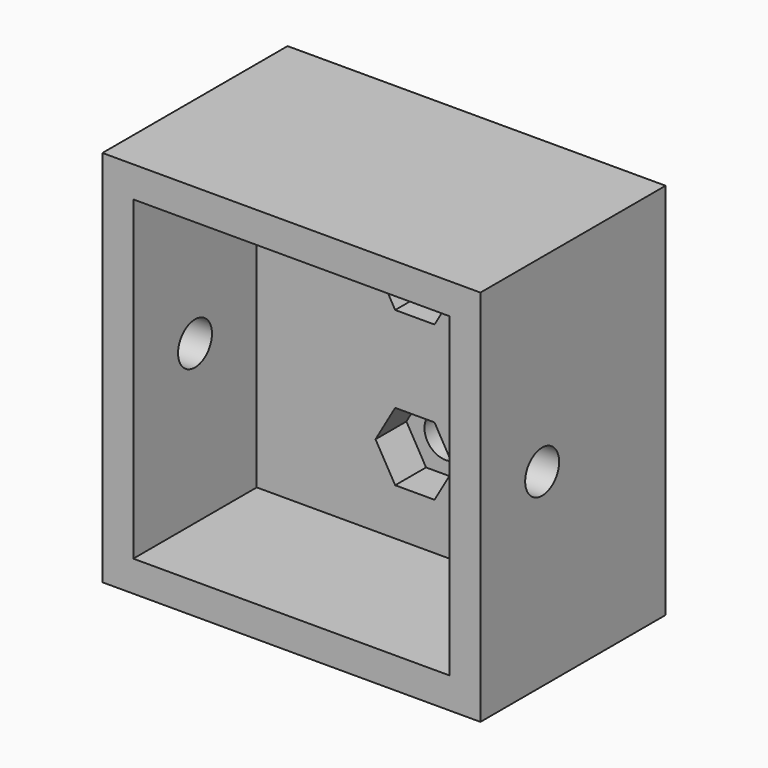
from build123d import *

# Parameters (mm, degrees)
F0_W     = 49
F0_H     = 49
F0_W_2   = 41
F0_H_2   = 41
F1_DEPTH = 20
F2_DEPTH = 10
F3_D     = 5.5
F5_D     = 5.5
F7_DEPTH = 5


with BuildPart() as f1:
    # F0 (on Front) → F1 (new body)
    with BuildSketch(Plane.XZ):
        Rectangle(F0_W, F0_H)
        Rectangle(F0_W_2, F0_H_2, mode=Mode.SUBTRACT)
    extrude(amount=F1_DEPTH)

    # F0 (on Front) → F2 (join)
    with BuildSketch(Plane.XZ):
        Rectangle(F0_W, F0_H)
        Rectangle(F0_W_2, F0_H_2, mode=Mode.SUBTRACT)
        Rectangle(F0_W_2, F0_H_2)
    extrude(amount=-F2_DEPTH)

    # F3 (through all)
    with Locations(Plane.XZ):
        with Locations((0, 10), (0, -10)):
            Hole(F3_D / 2)

    # F5 (through all)
    with Locations(Plane.YZ.offset(24.5)):
        with Locations((-10, 0)):
            Hole(F5_D / 2)


with BuildPart() as f7:
    # F6 (on face) → F7 (new body)
    with BuildSketch(Plane.XZ):
        Polygon((5.1, 10), (2.55, 14.4167295593), (-2.55, 14.4167295593), (-5.1, 10), (-2.55, 5.5832704407), (2.55, 5.5832704407), align=None)
    extrude(amount=-F7_DEPTH)


with BuildPart() as f7b:
    # F6 (on face) → F7, piece 2 (new body)
    with BuildSketch(Plane.XZ):
        Polygon((5.1, -10), (2.55, -5.5832704407), (-2.55, -5.5832704407), (-5.1, -10), (-2.55, -14.4167295593), (2.55, -14.4167295593), align=None)
    extrude(amount=-F7_DEPTH)


with BuildPart() as f1_1:
    add(f1.part)

    # F8: cut F7, F7b
    add(f7.part, mode=Mode.SUBTRACT)
    add(f7b.part, mode=Mode.SUBTRACT)


solid = f1_1.part
